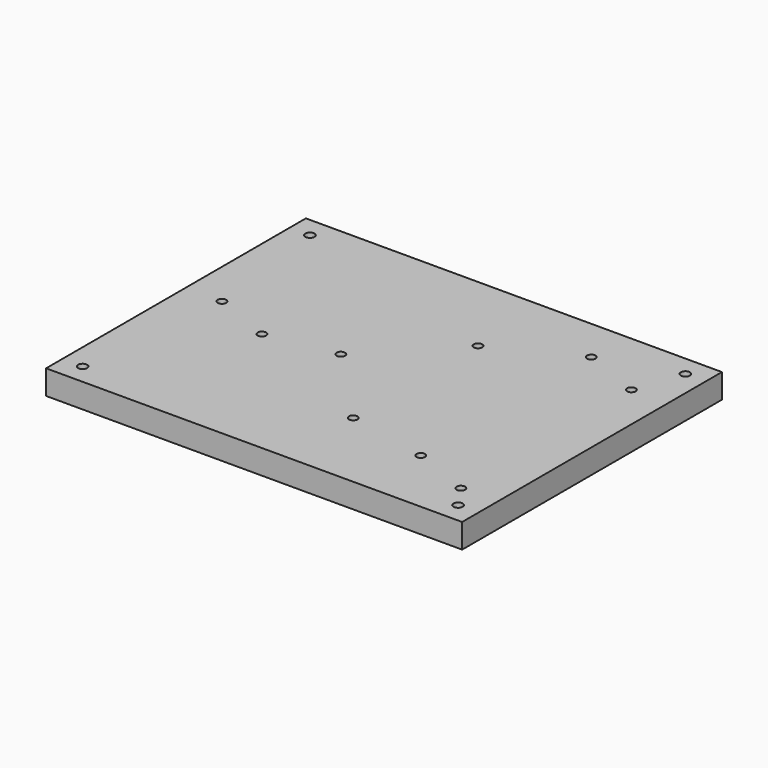
from build123d import *

# Parameters (mm, degrees)
SKETCH_W        = 205
SKETCH_H        = 160
PAD_DEPTH       = 12
SKETCH001_R     = 2.1
POCKET_DEPTH    = 12.001
SKETCH002_R     = 2.25
POCKET001_DEPTH = 12.001


with BuildPart() as part:
    # Sketch → Pad (new body)
    with BuildSketch(Plane.XY):
        Rectangle(SKETCH_W, SKETCH_H)
    extrude(amount=PAD_DEPTH)

    # Sketch001 → Pocket (cut, through all)
    with BuildSketch(Plane.XY.offset(12)):
        with Locations((-84.525, 5.829)):
            Circle(SKETCH001_R)
        with Locations((-55.475, -5.83)):
            Circle(SKETCH001_R)
        with Locations((-21.275, 0)):
            Circle(SKETCH001_R)
        with Locations((15.575, 38.42)):
            Circle(SKETCH001_R)
        with Locations((15.575, -38.42)):
            Circle(SKETCH001_R)
        with Locations((55.475, 58.3295)):
            Circle(SKETCH001_R)
        with Locations((84.525, 46.6705)):
            Circle(SKETCH001_R)
        with Locations((55.475, -46.6705)):
            Circle(SKETCH001_R)
        with Locations((84.525, -58.3295)):
            Circle(SKETCH001_R)
    extrude(amount=-POCKET_DEPTH, mode=Mode.SUBTRACT)

    # Sketch002 → Pocket001 (cut, through all)
    with BuildSketch(Plane.XY.offset(12)):
        with Locations((-92.5, 70)):
            Circle(SKETCH002_R)
        with Locations((92.5, 70)):
            Circle(SKETCH002_R)
        with Locations((-92.5, -70)):
            Circle(SKETCH002_R)
        with Locations((92.5, -70)):
            Circle(SKETCH002_R)
    extrude(amount=-POCKET001_DEPTH, mode=Mode.SUBTRACT)


solid = part.part
